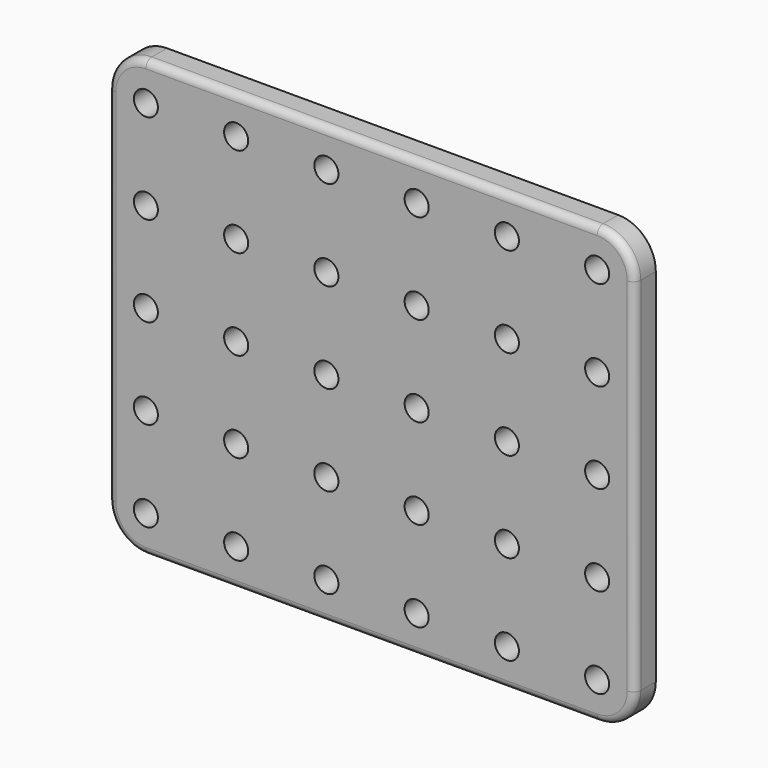
from build123d import *

# Parameters (mm, degrees)
F0_W     = 70
F0_H     = 48
F0_R     = 1.6
F0_H_2   = 10
F1_DEPTH = 3.5
F2_R     = 5
F3_R     = 1


with BuildPart() as f1:
    # F0 (on Front) → F1 (new body)
    with BuildSketch(Plane.XZ):
        with Locations((18, 29)):
            Rectangle(F0_W, F0_H)
        with Locations((-11.999999, 12)):
            Circle(F0_R, mode=Mode.SUBTRACT)
        with Locations((0, 12)):
            Circle(F0_R, mode=Mode.SUBTRACT)
        with Locations((12, 12)):
            Circle(F0_R, mode=Mode.SUBTRACT)
        with Locations((24.000001, 12)):
            Circle(F0_R, mode=Mode.SUBTRACT)
        with Locations((36, 12)):
            Circle(F0_R, mode=Mode.SUBTRACT)
        with Locations((48, 12)):
            Circle(F0_R, mode=Mode.SUBTRACT)
        with Locations((-11.999999, 24)):
            Circle(F0_R, mode=Mode.SUBTRACT)
        with Locations((0, 24)):
            Circle(F0_R, mode=Mode.SUBTRACT)
        with Locations((-11.999999, 36)):
            Circle(F0_R, mode=Mode.SUBTRACT)
        with Locations((0, 36)):
            Circle(F0_R, mode=Mode.SUBTRACT)
        with Locations((12, 24)):
            Circle(F0_R, mode=Mode.SUBTRACT)
        with Locations((12, 36)):
            Circle(F0_R, mode=Mode.SUBTRACT)
        with Locations((-11.999999, 48)):
            Circle(F0_R, mode=Mode.SUBTRACT)
        with Locations((0, 48)):
            Circle(F0_R, mode=Mode.SUBTRACT)
        with Locations((12, 48)):
            Circle(F0_R, mode=Mode.SUBTRACT)
        with Locations((24.000001, 24)):
            Circle(F0_R, mode=Mode.SUBTRACT)
        with Locations((24.000001, 36)):
            Circle(F0_R, mode=Mode.SUBTRACT)
        with Locations((36, 24)):
            Circle(F0_R, mode=Mode.SUBTRACT)
        with Locations((48, 24)):
            Circle(F0_R, mode=Mode.SUBTRACT)
        with Locations((36, 36)):
            Circle(F0_R, mode=Mode.SUBTRACT)
        with Locations((48, 36)):
            Circle(F0_R, mode=Mode.SUBTRACT)
        with Locations((24.000001, 48)):
            Circle(F0_R, mode=Mode.SUBTRACT)
        with Locations((36, 48)):
            Circle(F0_R, mode=Mode.SUBTRACT)
        with Locations((48, 48)):
            Circle(F0_R, mode=Mode.SUBTRACT)
        with Locations((18, 0)):
            Rectangle(F0_W, F0_H_2)
        with Locations((-11.999999, 0)):
            Circle(F0_R, mode=Mode.SUBTRACT)
        with Locations((0, 0)):
            Circle(F0_R, mode=Mode.SUBTRACT)
        with Locations((12, 0)):
            Circle(F0_R, mode=Mode.SUBTRACT)
        with Locations((24.000001, 0)):
            Circle(F0_R, mode=Mode.SUBTRACT)
        with Locations((36, 0)):
            Circle(F0_R, mode=Mode.SUBTRACT)
        with Locations((48, 0)):
            Circle(F0_R, mode=Mode.SUBTRACT)
    extrude(amount=F1_DEPTH)

    # F2
    f2_edges = [f1.edges().sort_by_distance(p)[0] for p in [
        (-17, -1.75, -5),
        (53, -1.75, -5),
        (-17, -1.75, 53),
        (53, -1.75, 53),
    ]]
    fillet(f2_edges, radius=F2_R)

    # F3
    f3_edges = [f1.edges().sort_by_distance(p)[0] for p in [
        (18, -3.5, 53),
    ]]
    fillet(f3_edges, radius=F3_R)


solid = f1.part
